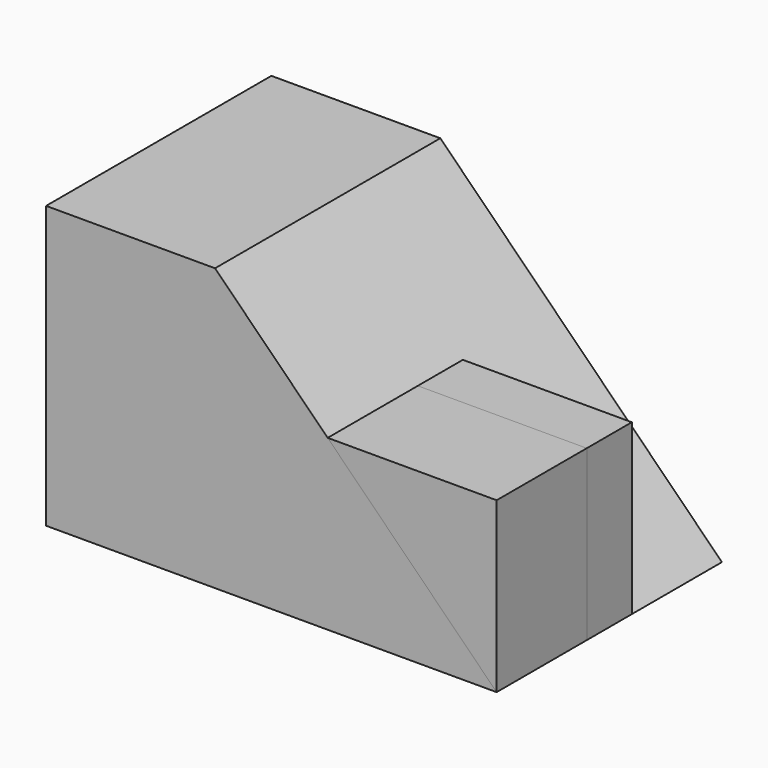
from build123d import *

# Parameters (mm, degrees)
F1_DEPTH = 31.75
F3_DEPTH = 19.05
F5_DEPTH = 12.7


with BuildPart() as f1:
    # F0 (on Front) → F1 (new body)
    with BuildSketch(Plane.XZ):
        Polygon((19.05, 31.75), (0, 31.75), (0, 0), (50.8, 0), align=None)
    extrude(amount=F1_DEPTH)


with BuildPart() as f3:
    # F2 (on face) → F3 (new body)
    with BuildSketch(Plane.XZ.offset(31.75)):
        Polygon((50.8, 19.05), (31.75, 19.05), (50.8, 0), align=None)
    extrude(amount=-F3_DEPTH)


with BuildPart() as f5:
    # F4 (on face) → F5 (new body)
    with BuildSketch(Plane.XZ.offset(31.75)):
        Polygon((50.8, 19.05), (31.75, 19.05), (50.8, 0), align=None)
    extrude(amount=-F5_DEPTH)


solid = Compound([f1.part, f3.part, f5.part])
